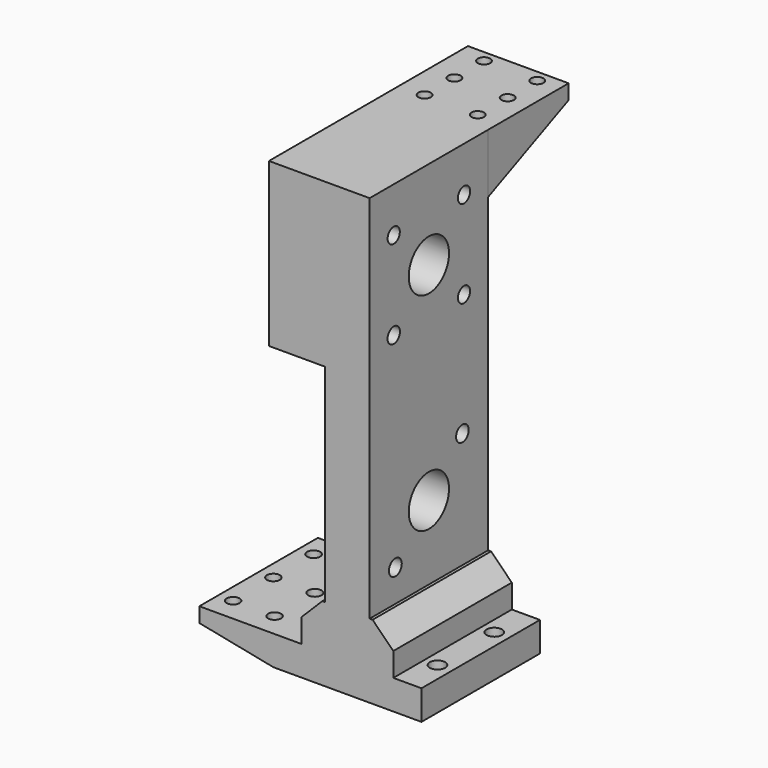
from build123d import *

# Parameters (mm, degrees)
SKETCH_W        = 50
SKETCH_H        = 50
PAD_DEPTH       = 10
SKETCH001_W     = 15
SKETCH001_H     = 50
PAD001_DEPTH    = 140
SKETCH004_R     = 2.6
POCKET002_DEPTH = 10
SKETCH005_R     = 8.5
SKETCH005_R_2   = 2.66237
SKETCH005_R_3   = 2.705532
POCKET_DEPTH    = 15
SKETCH006_W     = 50
SKETCH006_H     = 55
PAD002_DEPTH    = 19
SKETCH009_W     = 8
SKETCH009_H     = 50
PAD003_DEPTH    = 15
SKETCH010_R     = 8.5
POCKET003_DEPTH = 65
SKETCH011_R     = 17.1
POCKET004_DEPTH = 9
SKETCH012_R     = 2.570984
SKETCH012_R_2   = 2.587377
SKETCH012_R_3   = 2.575599
SKETCH012_R_4   = 2.613837
POCKET005_DEPTH = 65
CHAMFER_SIZE    = 7
CHAMFER001_SIZE = 7
SKETCH014_R     = 2.1
POCKET007_DEPTH = 10
SKETCH015_W     = 34
SKETCH015_H     = 5
PAD004_DEPTH    = 34
PAD005_DEPTH    = 4
PAD006_DEPTH    = 3
SKETCH018_R     = 2.1
POCKET008_DEPTH = 5
SKETCH019_W     = 50
SKETCH019_H     = 5
PAD007_DEPTH    = 25
PAD008_DEPTH    = 4
PAD009_DEPTH    = 3
SKETCH022_R     = 2.205048
SKETCH022_R_2   = 2.190785
SKETCH022_R_3   = 2.170019
SKETCH022_R_4   = 2.17643
SKETCH022_R_5   = 2.24574
POCKET009_DEPTH = 5


with BuildPart() as part:
    # Sketch → Pad (new body)
    with BuildSketch(Plane.XY):
        with Locations((0, 25)):
            Rectangle(SKETCH_W, SKETCH_H)
    extrude(amount=PAD_DEPTH)

    # Sketch001 (on Face6 of Pad) → Pad001 (join)
    with BuildSketch(Plane.XY.offset(10)):
        with Locations((0, 25)):
            Rectangle(SKETCH001_W, SKETCH001_H)
    extrude(amount=PAD001_DEPTH)

    # Sketch004 → Pocket002 (cut)
    with BuildSketch(Plane(origin=(0, 0, 0), x_dir=(1, 0, 0), z_dir=(0, 0, -1))):
        with Locations((-20, -13)):
            Circle(SKETCH004_R)
        with Locations((20, -13)):
            Circle(SKETCH004_R)
        with Locations((-20, -37)):
            Circle(SKETCH004_R)
        with Locations((20, -37)):
            Circle(SKETCH004_R)
    extrude(amount=-POCKET002_DEPTH, mode=Mode.SUBTRACT)

    # Sketch005 (on Face14 of Pocket002) → Pocket (cut)
    with BuildSketch(Plane.YZ.offset(7.5)):
        with Locations((25, 50)):
            Circle(SKETCH005_R)
        with Locations((25, 120)):
            Circle(SKETCH005_R)
        with Locations((39.142136, 64.142136)):
            Circle(SKETCH005_R_2)
        with Locations((10.857864, 35.857864)):
            Circle(SKETCH005_R_3)
    extrude(amount=-POCKET_DEPTH, mode=Mode.SUBTRACT)

    # Sketch006 (on Face13 of Pocket) → Pad002 (join)
    with BuildSketch(Plane(origin=(-7.5, 0, 0), x_dir=(0, -1, 0), z_dir=(-1, 0, 0))):
        with Locations((-25, 122.5)):
            Rectangle(SKETCH006_W, SKETCH006_H)
    extrude(amount=PAD002_DEPTH)

    # Sketch009 → Pad003 (join)
    with BuildSketch(Plane.XY.offset(10)):
        with Locations((11.5, 25)):
            Rectangle(SKETCH009_W, SKETCH009_H)
        with Locations((-11.5, 25)):
            Rectangle(SKETCH009_W, SKETCH009_H)
    extrude(amount=PAD003_DEPTH)

    # Sketch010 (on Face34 of Pad003) → Pocket003 (cut)
    with BuildSketch(Plane.YZ.offset(-7.5)):
        with Locations((25, 120)):
            Circle(SKETCH010_R)
    extrude(amount=-POCKET003_DEPTH, mode=Mode.SUBTRACT)

    # Sketch011 (on DatumPlane) → Pocket004 (cut)
    with BuildSketch(Plane(origin=(-26.5, 0, 0), x_dir=(0, -1, 0), z_dir=(-1, 0, 0))):
        with Locations((-25, 120)):
            Circle(SKETCH011_R)
    extrude(amount=-POCKET004_DEPTH, mode=Mode.SUBTRACT)

    # Sketch012 (on DatumPlane) → Pocket005 (cut)
    with BuildSketch(Plane(origin=(-26.5, 0, 0), x_dir=(0, -1, 0), z_dir=(-1, 0, 0))):
        with Locations((-39.825628, 105.174372)):
            Circle(SKETCH012_R)
        with Locations((-39.828762, 134.828762)):
            Circle(SKETCH012_R_2)
        with Locations((-10.170334, 134.829666)):
            Circle(SKETCH012_R_3)
        with Locations((-10.174481, 105.127072)):
            Circle(SKETCH012_R_4)
    extrude(amount=-POCKET005_DEPTH, mode=Mode.SUBTRACT)

    # Chamfer
    chamfer_edges = [part.edges().sort_by_distance(p)[0] for p in [
        (15.5, 25, 25),
    ]]
    chamfer(chamfer_edges, length=CHAMFER_SIZE)

    # Chamfer001
    chamfer001_edges = [part.edges().sort_by_distance(p)[0] for p in [
        (-15.5, 25, 25),
    ]]
    chamfer(chamfer001_edges, length=CHAMFER001_SIZE)

    # Sketch014 → Pocket007 (cut)
    with BuildSketch(Plane(origin=(0, 50, 0), x_dir=(-1, 0, 0), z_dir=(0, 1, 0))):
        with Locations((0, 60)):
            Circle(SKETCH014_R)
        with Locations((0, 40)):
            Circle(SKETCH014_R)
    extrude(amount=-POCKET007_DEPTH, mode=Mode.SUBTRACT)

    # Sketch015 (on DatumPlane) → Pad004 (join)
    with BuildSketch(Plane(origin=(0, 50, 0), x_dir=(-1, 0, 0), z_dir=(0, 1, 0))):
        with Locations((9.503069, 147.5)):
            Rectangle(SKETCH015_W, SKETCH015_H)
    extrude(amount=PAD004_DEPTH)

    # Sketch016 (on DatumPlane) → Pad005 (join)
    with BuildSketch(Plane.YZ.offset(7.496931)):
        Polygon((50, 145), (84, 145), (50, 130), align=None)
    extrude(amount=-PAD005_DEPTH)

    # Sketch017 (on DatumPlane) → Pad006 (join)
    with BuildSketch(Plane(origin=(-26.503069, 0, 0), x_dir=(0, -1, 0), z_dir=(-1, 0, 0))):
        Polygon((-84, 145), (-50, 145), (-50, 130), align=None)
    extrude(amount=-PAD006_DEPTH)

    # Sketch018 (on Face38 of Pad006) → Pocket008 (cut)
    with BuildSketch(Plane.XY.offset(150)):
        with Locations((-17.921772, 80.050142)):
            Circle(SKETCH018_R)
        with Locations((-17.903705, 67.549894)):
            Circle(SKETCH018_R)
        with Locations((-17.99993, 55.050264)):
            Circle(SKETCH018_R)
        with Locations((0.078158, 79.999878)):
            Circle(SKETCH018_R)
        with Locations((0.096225, 67.49963)):
            Circle(SKETCH018_R)
        with Locations((0, 55)):
            Circle(SKETCH018_R)
    extrude(amount=-POCKET008_DEPTH, mode=Mode.SUBTRACT)

    # Sketch019 (on DatumPlane) → Pad007 (join)
    with BuildSketch(Plane(origin=(-25, 0, 0), x_dir=(0, -1, 0), z_dir=(-1, 0, 0))):
        with Locations((-25, 7.5)):
            Rectangle(SKETCH019_W, SKETCH019_H)
    extrude(amount=PAD007_DEPTH)

    # Sketch020 (on DatumPlane) → Pad008 (join)
    with BuildSketch(Plane(origin=(0, 50, 0), x_dir=(-1, 0, 0), z_dir=(0, 1, 0))):
        Polygon((25, 0), (25, 5), (50, 5), align=None)
    extrude(amount=-PAD008_DEPTH)

    # Sketch021 (on DatumPlane) → Pad009 (join)
    with BuildSketch(Plane.XZ):
        Polygon((-50, 5), (-25, 5), (-25, 0), align=None)
    extrude(amount=-PAD009_DEPTH)

    # Sketch022 (on Face21 of Pad009) → Pocket009 (cut)
    with BuildSketch(Plane.XY.offset(10)):
        with Locations((-45.021925, 41.999993)):
            Circle(SKETCH022_R)
        with Locations((-45, 25)):
            Circle(SKETCH022_R_2)
        with Locations((-45, 8)):
            Circle(SKETCH022_R_3)
        with Locations((-31, 8)):
            Circle(SKETCH022_R_4)
        with Locations((-31, 25)):
            Circle(SKETCH022_R_5)
        with Locations((-31.021925, 41.999993)):
            Circle(SKETCH022_R_5)
    extrude(amount=-POCKET009_DEPTH, mode=Mode.SUBTRACT)


solid = part.part
